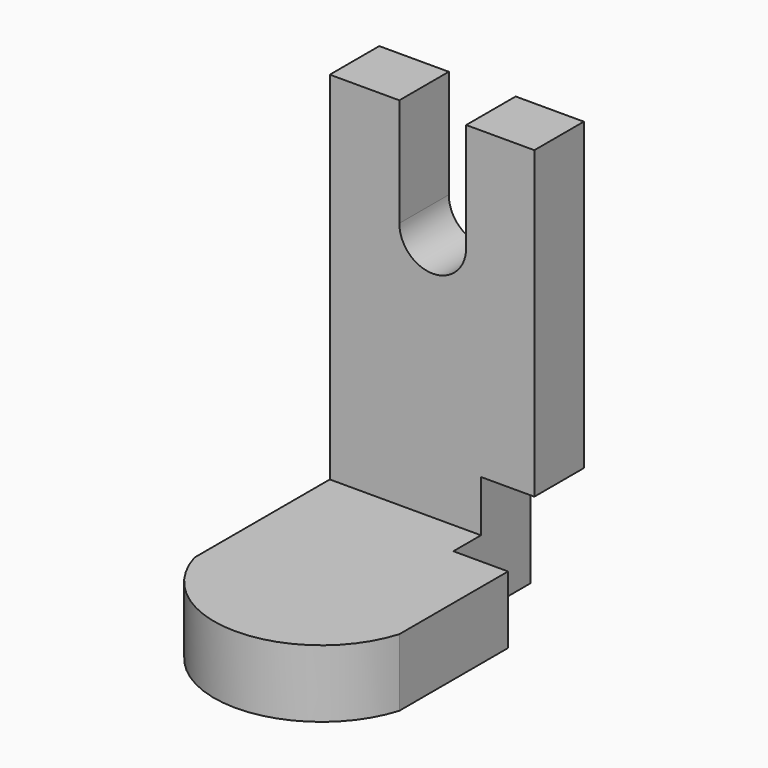
from build123d import *

# Parameters (mm, degrees)
F1_DEPTH = 13.208
F2_W     = 43.973506
F2_H     = 14.405625
F3_DEPTH = 53.848
F5_DEPTH = 25.4
F6_W     = 25.776795
F6_H     = 32.399999
F7_DEPTH = 11.684


with BuildPart() as f1:
    # F0 (on Front) → F1 (new body)
    with BuildSketch(Plane.XZ):
        with BuildLine():
            Line((-6.996537, 45.263272), (-21.846319, 45.263272))
            Line((-21.846319, 45.263272), (-21.846319, -45.263272))
            Line((-21.846319, -45.263272), (21.846319, -45.263272))
            Line((21.846319, -45.263272), (21.846319, 45.263272))
            Line((21.846319, 45.263272), (7.282096, 45.263272))
            Line((7.282096, 45.263272), (7.282096, 22.131884))
            ThreePointArc((7.282096, 22.131884), (0.14278, 14.992568), (-6.996537, 22.131884))
            Line((-6.996537, 22.131884), (-6.996537, 45.263272))
        make_face()
    extrude(amount=F1_DEPTH)

    # F2 (on face) → F3 (join)
    with BuildSketch(Plane.XZ.offset(13.208)):
        with Locations((0.140434, -38.06046)):
            Rectangle(F2_W, F2_H)
    extrude(amount=F3_DEPTH)

    # F4 (on face) → F5 (cut)
    with BuildSketch(Plane.XY.offset(-30.857647)):
        with BuildLine():
            ThreePointArc((22.127187, -49.615089), (0.028036, -65.882193), (-21.846319, -49.314037))
            Line((-21.846319, -49.314037), (-21.846319, -67.056))
            Line((-21.846319, -67.056), (22.127187, -67.056))
            Line((22.127187, -67.056), (22.127187, -49.615089))
        make_face()
    extrude(amount=-F5_DEPTH, mode=Mode.SUBTRACT)

    # F6 (on face) → F7 (cut)
    with BuildSketch(Plane.YZ.offset(22.127187)):
        with Locations((-7.693317, -36.091397)):
            Rectangle(F6_W, F6_H)
    extrude(amount=-F7_DEPTH, mode=Mode.SUBTRACT)


solid = f1.part
